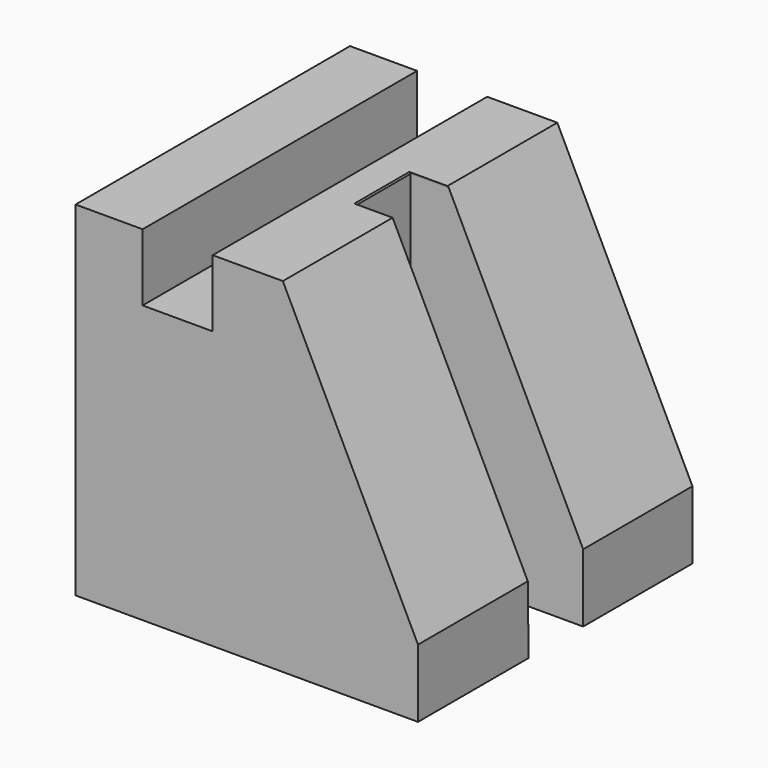
from build123d import *

# Parameters (mm, degrees)
F1_DEPTH = 100
F2_W     = 20
F2_H     = 89.6053736129
F3_DEPTH = 10
F4_DEPTH = 10
F5_DEPTH = 10
F6_W     = 50.2936672419
F6_H     = 19.8401175439
F7_DEPTH = 100


with BuildPart() as f1:
    # F0 (on Front) → F1 (new body)
    with BuildSketch(Plane.XZ):
        Polygon((-55.1563166082, 75.4929259419), (-74.7038125992, 75.4929259419), (-74.7038125992, -24.8185619712), (25.1119807363, -24.8185619712), (25.1119807363, -4.9872435629), (-14.2842791975, 75.4929259419), (-34.7202979028, 75.4929259419), (-34.7202979028, 55.9454262257), (-55.1563166082, 55.9454262257), align=None)
    extrude(amount=F1_DEPTH)

    # F2 (on face) → F3 (cut)
    with BuildSketch(Plane(origin=(18.2883118785, 0, 8.9524052067), x_dir=(0, 1, 0), z_dir=(0.8981623117, 0, 0.4396640329))):
        with Locations((-50, 29.2824978739)):
            Rectangle(F2_W, F2_H)
    extrude(amount=-F3_DEPTH, mode=Mode.SUBTRACT)

    # F4 (cut): a face of the model
    f4_faces = [f1.faces().sort_by_distance(p)[0] for p in [
        (-18.775090756, -50, 73.2946057774),
    ]]
    extrude(f4_faces, amount=-F4_DEPTH, mode=Mode.SUBTRACT)

    # F5 (cut): a face of the model
    f5_faces = [f1.faces().sort_by_distance(p)[0] for p in [
        (20.6211691778, -50, -7.1855637275),
    ]]
    extrude(f5_faces, amount=-F5_DEPTH, mode=Mode.SUBTRACT)

    # F6 (on face) → F7 (cut)
    with BuildSketch(Plane(origin=(0, 0, -24.8185619712), x_dir=(1, 0, 0), z_dir=(0, 0, -1))):
        with Locations((-0.0348528847, 49.7383717448)):
            Rectangle(F6_W, F6_H)
    extrude(amount=-F7_DEPTH, mode=Mode.SUBTRACT)


solid = f1.part
